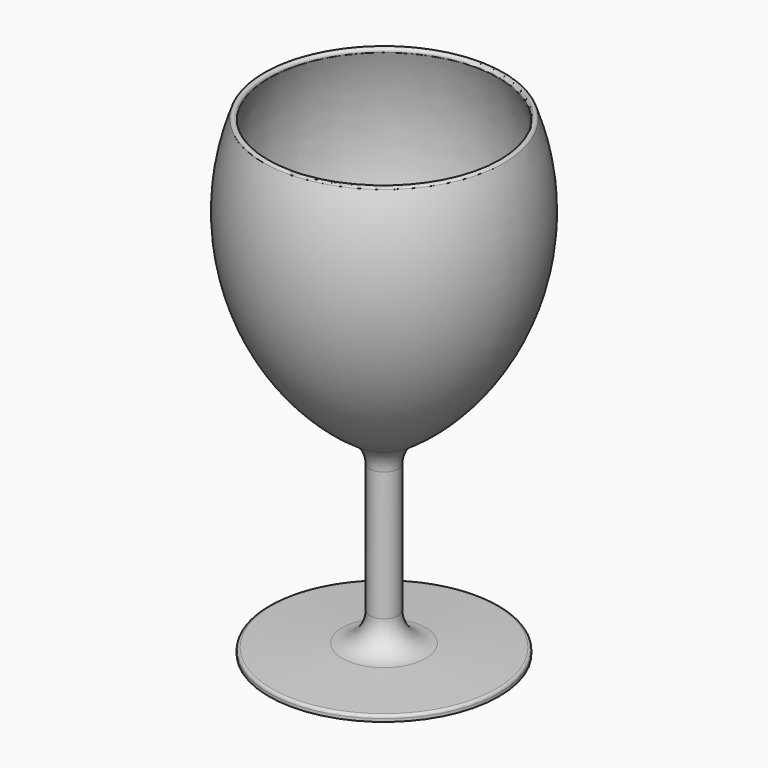
from build123d import *

# Parameters (mm, degrees)
F2_R = 0.5


with BuildPart() as f1:
    # F0 (on Front) → F1 (revolve)
    with BuildSketch(Plane.XZ):
        with BuildLine():
            Line((0, 31.73819), (0, 0))
            Line((0, 0), (20, 0))
            Line((20, 0), (20, 1))
            Line((20, 1), (7.23832, 1.668811))
            ThreePointArc((7.23832, 1.668811), (3.873128, 3.220186), (2.5, 6.661959))
            Line((2.5, 6.661959), (2.5, 29.096285))
            ThreePointArc((2.5, 29.096285), (3.107022, 31.484118), (4.780698, 33.292164))
            ThreePointArc((4.780698, 33.292164), (21.390684, 54.769824), (20.937939, 81.917136))
            ThreePointArc((20.937939, 81.917136), (20.29557, 82.212706), (20, 81.570337))
            ThreePointArc((20, 81.570337), (19.60422, 52.799635), (0, 31.73819))
        make_face()
    revolve(axis=Axis((0, 0, 15.869095), (0, 0, 1)))

    # F2
    f2_edges = [f1.edges().sort_by_distance(p)[0] for p in [
        (-20, 0, 1),
    ]]
    fillet(f2_edges, radius=F2_R)


solid = f1.part
